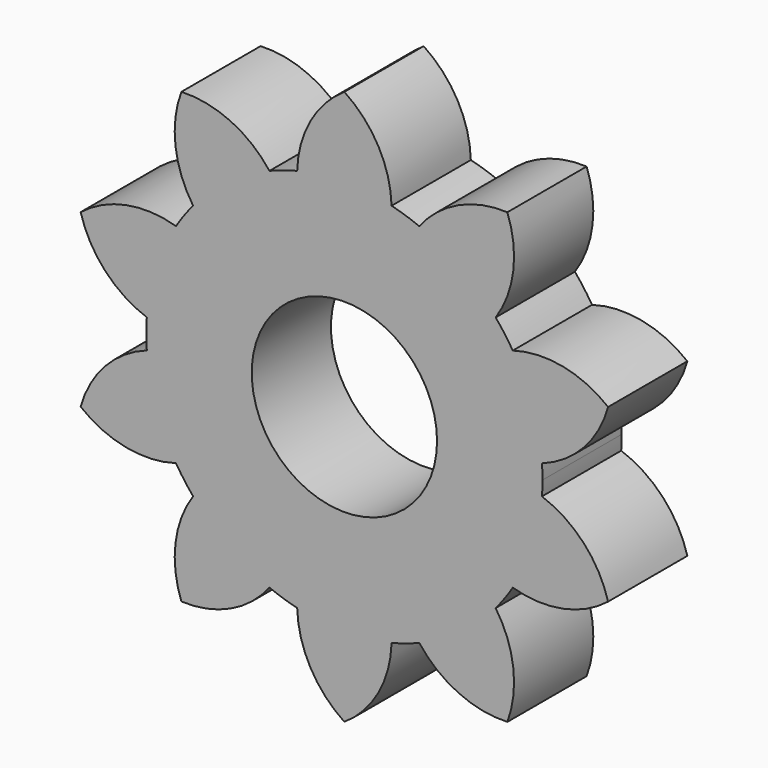
from build123d import *

# Parameters (mm, degrees)
F0_R     = 4.677056
F1_DEPTH = 5


with BuildPart() as f1:
    # F0 (on Front) → F1 (new body)
    with BuildSketch(Plane.XZ):
        with BuildLine():
            ThreePointArc((8.500315, 5.267318), (9.510565, 3.09017), (9.972951, 0.73501))
            ThreePointArc((9.972951, 0.73501), (12.080664, 2.122816), (13.312307, 4.325431))
            ThreePointArc((13.312307, 4.325431), (11.021222, 5.383442), (8.500315, 5.267318))
        make_face()
        with BuildLine():
            ThreePointArc((3.780847, 9.25771), (5.877853, 8.09017), (7.636259, 6.456589))
            ThreePointArc((7.636259, 6.456589), (8.525703, 8.81823), (8.227458, 11.324125))
            ThreePointArc((8.227458, 11.324125), (5.752048, 10.833408), (3.780847, 9.25771))
        make_face()
        with BuildLine():
            ThreePointArc((-2.382776, 9.711971), (0, 10), (2.382776, 9.711971))
            ThreePointArc((2.382776, 9.711971), (1.714213, 12.145381), (0, 13.997388))
            ThreePointArc((0, 13.997388), (-1.714213, 12.145381), (-2.382776, 9.711971))
        make_face()
        with BuildLine():
            ThreePointArc((-7.636259, 6.456589), (-5.877853, 8.09017), (-3.780847, 9.25771))
            ThreePointArc((-3.780847, 9.25771), (-5.752048, 10.833408), (-8.227458, 11.324125))
            ThreePointArc((-8.227458, 11.324125), (-8.525703, 8.81823), (-7.636259, 6.456589))
        make_face()
        with BuildLine():
            ThreePointArc((-9.972951, 0.73501), (-9.510565, 3.09017), (-8.500315, 5.267318))
            ThreePointArc((-8.500315, 5.267318), (-11.021222, 5.383442), (-13.312307, 4.325431))
            ThreePointArc((-13.312307, 4.325431), (-12.080664, 2.122816), (-9.972951, 0.73501))
        make_face()
        with BuildLine():
            ThreePointArc((-13.312307, -4.325431), (-11.021222, -5.383442), (-8.500315, -5.267318))
            ThreePointArc((-8.500315, -5.267318), (-9.510565, -3.09017), (-9.972951, -0.73501))
            ThreePointArc((-9.972951, -0.73501), (-12.080664, -2.122816), (-13.312307, -4.325431))
        make_face()
        with BuildLine():
            ThreePointArc((-8.227458, -11.324125), (-5.752048, -10.833408), (-3.780847, -9.25771))
            ThreePointArc((-3.780847, -9.25771), (-5.877853, -8.09017), (-7.636259, -6.456589))
            ThreePointArc((-7.636259, -6.456589), (-8.525703, -8.81823), (-8.227458, -11.324125))
        make_face()
        with BuildLine():
            ThreePointArc((0, -13.997388), (1.714213, -12.145381), (2.382776, -9.711971))
            ThreePointArc((2.382776, -9.711971), (0, -10), (-2.382776, -9.711971))
            ThreePointArc((-2.382776, -9.711971), (-1.714213, -12.145381), (0, -13.997388))
        make_face()
        with BuildLine():
            ThreePointArc((8.227458, -11.324125), (8.525703, -8.81823), (7.636259, -6.456589))
            ThreePointArc((7.636259, -6.456589), (5.877853, -8.09017), (3.780847, -9.25771))
            ThreePointArc((3.780847, -9.25771), (5.752048, -10.833408), (8.227458, -11.324125))
        make_face()
        with BuildLine():
            ThreePointArc((13.312307, -4.325431), (12.080664, -2.122816), (9.972951, -0.73501))
            ThreePointArc((9.972951, -0.73501), (9.510565, -3.09017), (8.500315, -5.267318))
            ThreePointArc((8.500315, -5.267318), (11.021222, -5.383442), (13.312307, -4.325431))
        make_face()
        with BuildLine():
            ThreePointArc((9.972951, -0.73501), (9.993236, -0.367754), (10, 0))
            ThreePointArc((10, 0), (9.993236, 0.367754), (9.972951, 0.73501))
            ThreePointArc((9.972951, 0.73501), (9.510565, 3.09017), (8.500315, 5.267318))
            ThreePointArc((8.500315, 5.267318), (8.09017, 5.877853), (7.636259, 6.456589))
            ThreePointArc((7.636259, 6.456589), (5.877853, 8.09017), (3.780847, 9.25771))
            ThreePointArc((3.780847, 9.25771), (3.09017, 9.510565), (2.382776, 9.711971))
            ThreePointArc((2.382776, 9.711971), (0, 10), (-2.382776, 9.711971))
            ThreePointArc((-2.382776, 9.711971), (-3.09017, 9.510565), (-3.780847, 9.25771))
            ThreePointArc((-3.780847, 9.25771), (-5.877853, 8.09017), (-7.636259, 6.456589))
            ThreePointArc((-7.636259, 6.456589), (-8.09017, 5.877853), (-8.500315, 5.267318))
            ThreePointArc((-8.500315, 5.267318), (-9.510565, 3.09017), (-9.972951, 0.73501))
            ThreePointArc((-9.972951, 0.73501), (-10, 0), (-9.972951, -0.73501))
            ThreePointArc((-9.972951, -0.73501), (-9.510565, -3.09017), (-8.500315, -5.267318))
            ThreePointArc((-8.500315, -5.267318), (-8.09017, -5.877853), (-7.636259, -6.456589))
            ThreePointArc((-7.636259, -6.456589), (-5.877853, -8.09017), (-3.780847, -9.25771))
            ThreePointArc((-3.780847, -9.25771), (-3.09017, -9.510565), (-2.382776, -9.711971))
            ThreePointArc((-2.382776, -9.711971), (0, -10), (2.382776, -9.711971))
            ThreePointArc((2.382776, -9.711971), (3.09017, -9.510565), (3.780847, -9.25771))
            ThreePointArc((3.780847, -9.25771), (5.877853, -8.09017), (7.636259, -6.456589))
            ThreePointArc((7.636259, -6.456589), (8.09017, -5.877853), (8.500315, -5.267318))
            ThreePointArc((8.500315, -5.267318), (9.510565, -3.09017), (9.972951, -0.73501))
        make_face()
        Circle(F0_R, mode=Mode.SUBTRACT)
    extrude(amount=F1_DEPTH)


solid = f1.part
